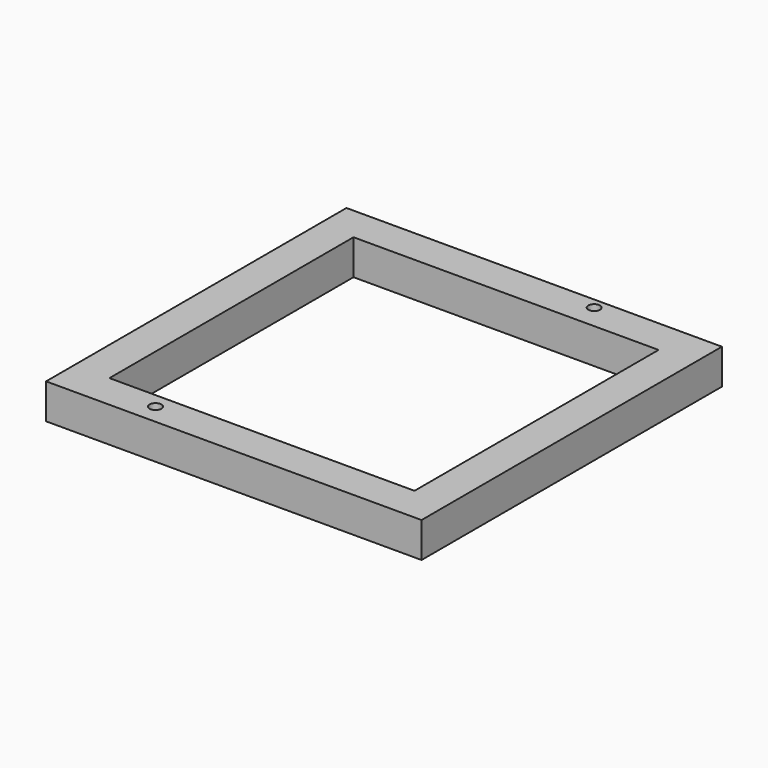
from build123d import *

# Parameters (mm, degrees)
F0_W     = 203.2
F0_H     = 203.2
F0_R     = 3.175
F0_W_2   = 165.100006
F0_H_2   = 165.100005
F1_DEPTH = 19.05


with BuildPart() as f1:
    # F0 (on Top) → F1 (new body)
    with BuildSketch(Plane.XY):
        with Locations((-37.103736, 42.032712)):
            Rectangle(F0_W, F0_H)
        with Locations((-88.174261, -48.707619)):
            Circle(F0_R, mode=Mode.SUBTRACT)
        with Locations((-37.103736, 42.032713)):
            Rectangle(F0_W_2, F0_H_2, mode=Mode.SUBTRACT)
        with Locations((0, 137.821719)):
            Circle(F0_R, mode=Mode.SUBTRACT)
    extrude(amount=F1_DEPTH)


solid = f1.part
